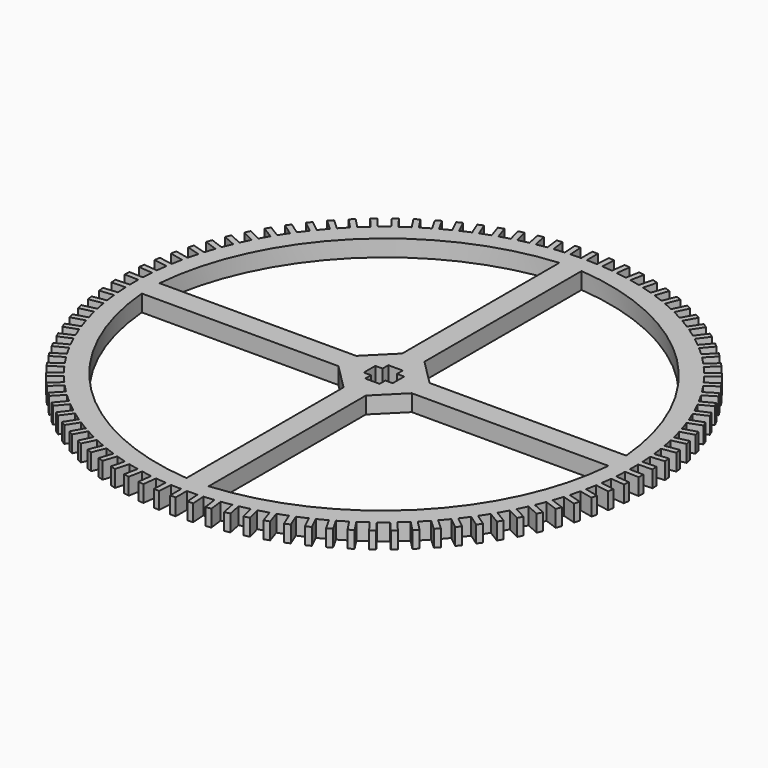
from build123d import *

# Parameters (mm, degrees)
F1_DEPTH = 3


with BuildPart() as f1:
    # F0 (on Top) → F1 (new body)
    with BuildSketch(Plane.XY):
        with BuildLine():
            ThreePointArc((44.990129, -0.942489), (44.997532, -0.47127), (45, 0))
            ThreePointArc((45, 0), (44.997532, 0.47127), (44.990129, 0.942489))
            ThreePointArc((44.990129, 0.942489), (44.97688, 1.442321), (44.958078, 1.941975))
            ThreePointArc((44.958078, 1.941975), (44.907543, 2.88316), (44.837307, 3.82308))
            ThreePointArc((44.837307, 3.82308), (44.79206, 4.321036), (44.741284, 4.818459))
            ThreePointArc((44.741284, 4.818459), (44.630551, 5.754472), (44.500238, 6.687961))
            ThreePointArc((44.500238, 6.687961), (44.42318, 7.181995), (44.340638, 7.675143))
            ThreePointArc((44.340638, 7.675143), (44.170162, 8.602138), (43.980308, 9.52536))
            ThreePointArc((43.980308, 9.52536), (43.871756, 10.013442), (43.757787, 10.500288))
            ThreePointArc((43.757787, 10.500288), (43.528269, 11.414456), (43.279654, 12.323617))
            ThreePointArc((43.279654, 12.323617), (43.140053, 12.803741), (42.995127, 13.282285))
            ThreePointArc((42.995127, 13.282285), (42.707509, 14.17987), (42.401155, 15.071234))
            ThreePointArc((42.401155, 15.071234), (42.231079, 15.541427), (42.05579, 16.009702))
            ThreePointArc((42.05579, 16.009702), (41.711254, 16.887015), (41.34842, 17.75692))
            ThreePointArc((41.34842, 17.75692), (41.148568, 18.21525), (40.943636, 18.671332))
            ThreePointArc((40.943636, 18.671332), (40.543599, 19.524768), (40.125775, 20.369639))
            ThreePointArc((40.125775, 20.369639), (39.896969, 20.814223), (39.663237, 21.256238))
            ThreePointArc((39.663237, 21.256238), (39.209342, 22.08229), (38.738245, 22.898654))
            ThreePointArc((38.738245, 22.898654), (38.481424, 23.327666), (38.219853, 23.753797))
            ThreePointArc((38.219853, 23.753797), (37.713965, 24.549071), (37.191531, 25.333574))
            ThreePointArc((37.191531, 25.333574), (36.907751, 25.74525), (36.619415, 26.153747))
            ThreePointArc((36.619415, 26.153747), (36.063613, 26.914974), (35.49199, 27.664393))
            ThreePointArc((35.49199, 27.664393), (35.182417, 28.057041), (34.8685, 28.446225))
            ThreePointArc((34.8685, 28.446225), (34.265068, 29.170278), (33.646604, 29.881534))
            ThreePointArc((33.646604, 29.881534), (33.31251, 30.25354), (32.974303, 30.621812))
            ThreePointArc((32.974303, 30.621812), (32.325721, 31.305715), (31.662957, 31.975884))
            ThreePointArc((31.662957, 31.975884), (31.305715, 32.325721), (30.944608, 32.671567))
            ThreePointArc((30.944608, 32.671567), (30.25354, 33.31251), (29.5492, 33.938839))
            ThreePointArc((29.5492, 33.938839), (29.170278, 34.265068), (28.787754, 34.587067))
            ThreePointArc((28.787754, 34.587067), (28.057041, 35.182417), (27.314019, 35.762332))
            ThreePointArc((27.314019, 35.762332), (26.914974, 36.063613), (26.512606, 36.360442))
            ThreePointArc((26.512606, 36.360442), (25.74525, 36.907751), (24.966599, 37.438869))
            ThreePointArc((24.966599, 37.438869), (24.549071, 37.713965), (24.128511, 37.984404))
            ThreePointArc((24.128511, 37.984404), (23.327666, 38.481424), (22.516586, 38.961563))
            ThreePointArc((22.516586, 38.961563), (22.08229, 39.209342), (21.645267, 39.45228))
            ThreePointArc((21.645267, 39.45228), (20.814223, 39.896969), (19.974047, 40.324154))
            ThreePointArc((19.974047, 40.324154), (19.524768, 40.543599), (19.073079, 40.758038))
            ThreePointArc((19.073079, 40.758038), (18.21525, 41.148568), (17.349431, 41.521046))
            ThreePointArc((17.349431, 41.521046), (16.887015, 41.711254), (16.422514, 41.896313))
            ThreePointArc((16.422514, 41.896313), (15.541427, 42.231079), (14.653522, 42.547318))
            ThreePointArc((14.653522, 42.547318), (14.17987, 42.707509), (13.704467, 42.862426))
            ThreePointArc((13.704467, 42.862426), (12.803741, 43.140053), (11.897399, 43.398755))
            ThreePointArc((11.897399, 43.398755), (11.414456, 43.528269), (10.930104, 43.652409))
            ThreePointArc((10.930104, 43.652409), (10.013442, 43.871756), (9.092387, 44.071856))
            ThreePointArc((9.092387, 44.071856), (8.602138, 44.170162), (8.110828, 44.263015))
            ThreePointArc((8.110828, 44.263015), (7.181995, 44.42318), (6.250012, 44.563857))
            ThreePointArc((6.250012, 44.563857), (5.754472, 44.630551), (5.258222, 44.691734))
            ThreePointArc((5.258222, 44.691734), (4.321036, 44.79206), (3.381955, 44.872735))
            ThreePointArc((3.381955, 44.872735), (2.88316, 44.907543), (2.384009, 44.936806))
            ThreePointArc((2.384009, 44.936806), (1.442321, 44.97688), (0.5, 44.997222))
            ThreePointArc((0.5, 44.997222), (0.250004, 44.999306), (0, 45))
            ThreePointArc((0, 45), (-0.250004, 44.999306), (-0.5, 44.997222))
            ThreePointArc((-0.5, 44.997222), (-1.442321, 44.97688), (-2.384009, 44.936806))
            ThreePointArc((-2.384009, 44.936806), (-2.88316, 44.907543), (-3.381955, 44.872735))
            ThreePointArc((-3.381955, 44.872735), (-4.321036, 44.79206), (-5.258222, 44.691734))
            ThreePointArc((-5.258222, 44.691734), (-5.754472, 44.630551), (-6.250012, 44.563857))
            ThreePointArc((-6.250012, 44.563857), (-7.181995, 44.42318), (-8.110828, 44.263015))
            ThreePointArc((-8.110828, 44.263015), (-8.602138, 44.170162), (-9.092387, 44.071856))
            ThreePointArc((-9.092387, 44.071856), (-10.013442, 43.871756), (-10.930104, 43.652409))
            ThreePointArc((-10.930104, 43.652409), (-11.414456, 43.528269), (-11.897399, 43.398755))
            ThreePointArc((-11.897399, 43.398755), (-12.803741, 43.140053), (-13.704467, 42.862426))
            ThreePointArc((-13.704467, 42.862426), (-14.17987, 42.707509), (-14.653522, 42.547318))
            ThreePointArc((-14.653522, 42.547318), (-15.541427, 42.231079), (-16.422514, 41.896313))
            ThreePointArc((-16.422514, 41.896313), (-16.887015, 41.711254), (-17.349431, 41.521046))
            ThreePointArc((-17.349431, 41.521046), (-18.21525, 41.148568), (-19.073079, 40.758038))
            ThreePointArc((-19.073079, 40.758038), (-19.524768, 40.543599), (-19.974047, 40.324154))
            ThreePointArc((-19.974047, 40.324154), (-20.814223, 39.896969), (-21.645267, 39.45228))
            ThreePointArc((-21.645267, 39.45228), (-22.08229, 39.209342), (-22.516586, 38.961563))
            ThreePointArc((-22.516586, 38.961563), (-23.327666, 38.481424), (-24.128511, 37.984404))
            ThreePointArc((-24.128511, 37.984404), (-24.549071, 37.713965), (-24.966599, 37.438869))
            ThreePointArc((-24.966599, 37.438869), (-25.74525, 36.907751), (-26.512606, 36.360442))
            ThreePointArc((-26.512606, 36.360442), (-26.914974, 36.063613), (-27.314019, 35.762332))
            ThreePointArc((-27.314019, 35.762332), (-28.057041, 35.182417), (-28.787754, 34.587067))
            ThreePointArc((-28.787754, 34.587067), (-29.170278, 34.265068), (-29.5492, 33.938839))
            ThreePointArc((-29.5492, 33.938839), (-30.25354, 33.31251), (-30.944608, 32.671567))
            ThreePointArc((-30.944608, 32.671567), (-31.305715, 32.325721), (-31.662957, 31.975884))
            ThreePointArc((-31.662957, 31.975884), (-32.325721, 31.305715), (-32.974303, 30.621812))
            ThreePointArc((-32.974303, 30.621812), (-33.31251, 30.25354), (-33.646604, 29.881534))
            ThreePointArc((-33.646604, 29.881534), (-34.265068, 29.170278), (-34.8685, 28.446225))
            ThreePointArc((-34.8685, 28.446225), (-35.182417, 28.057041), (-35.49199, 27.664393))
            ThreePointArc((-35.49199, 27.664393), (-36.063613, 26.914974), (-36.619415, 26.153747))
            ThreePointArc((-36.619415, 26.153747), (-36.907751, 25.74525), (-37.191531, 25.333574))
            ThreePointArc((-37.191531, 25.333574), (-37.713965, 24.549071), (-38.219853, 23.753797))
            ThreePointArc((-38.219853, 23.753797), (-38.481424, 23.327666), (-38.738245, 22.898654))
            ThreePointArc((-38.738245, 22.898654), (-39.209342, 22.08229), (-39.663237, 21.256238))
            ThreePointArc((-39.663237, 21.256238), (-39.896969, 20.814223), (-40.125775, 20.369639))
            ThreePointArc((-40.125775, 20.369639), (-40.543599, 19.524768), (-40.943636, 18.671332))
            ThreePointArc((-40.943636, 18.671332), (-41.148568, 18.21525), (-41.34842, 17.75692))
            ThreePointArc((-41.34842, 17.75692), (-41.711254, 16.887015), (-42.05579, 16.009702))
            ThreePointArc((-42.05579, 16.009702), (-42.231079, 15.541427), (-42.401155, 15.071234))
            ThreePointArc((-42.401155, 15.071234), (-42.707509, 14.17987), (-42.995127, 13.282285))
            ThreePointArc((-42.995127, 13.282285), (-43.140053, 12.803741), (-43.279654, 12.323617))
            ThreePointArc((-43.279654, 12.323617), (-43.528269, 11.414456), (-43.757787, 10.500288))
            ThreePointArc((-43.757787, 10.500288), (-43.871756, 10.013442), (-43.980308, 9.52536))
            ThreePointArc((-43.980308, 9.52536), (-44.170162, 8.602138), (-44.340638, 7.675143))
            ThreePointArc((-44.340638, 7.675143), (-44.42318, 7.181995), (-44.500238, 6.687961))
            ThreePointArc((-44.500238, 6.687961), (-44.630551, 5.754472), (-44.741284, 4.818459))
            ThreePointArc((-44.741284, 4.818459), (-44.79206, 4.321036), (-44.837307, 3.82308))
            ThreePointArc((-44.837307, 3.82308), (-44.907543, 2.88316), (-44.958078, 1.941975))
            ThreePointArc((-44.958078, 1.941975), (-44.97688, 1.442321), (-44.990129, 0.942489))
            ThreePointArc((-44.990129, 0.942489), (-45, 0), (-44.990129, -0.942489))
            ThreePointArc((-44.990129, -0.942489), (-44.97688, -1.442321), (-44.958078, -1.941975))
            ThreePointArc((-44.958078, -1.941975), (-44.907543, -2.88316), (-44.837307, -3.82308))
            ThreePointArc((-44.837307, -3.82308), (-44.79206, -4.321036), (-44.741284, -4.818459))
            ThreePointArc((-44.741284, -4.818459), (-44.630551, -5.754472), (-44.500238, -6.687961))
            ThreePointArc((-44.500238, -6.687961), (-44.42318, -7.181995), (-44.340638, -7.675143))
            ThreePointArc((-44.340638, -7.675143), (-44.170162, -8.602138), (-43.980308, -9.52536))
            ThreePointArc((-43.980308, -9.52536), (-43.871756, -10.013442), (-43.757787, -10.500288))
            ThreePointArc((-43.757787, -10.500288), (-43.528269, -11.414456), (-43.279654, -12.323617))
            ThreePointArc((-43.279654, -12.323617), (-43.140053, -12.803741), (-42.995127, -13.282285))
            ThreePointArc((-42.995127, -13.282285), (-42.707509, -14.17987), (-42.401155, -15.071234))
            ThreePointArc((-42.401155, -15.071234), (-42.231079, -15.541427), (-42.05579, -16.009702))
            ThreePointArc((-42.05579, -16.009702), (-41.711254, -16.887015), (-41.34842, -17.75692))
            ThreePointArc((-41.34842, -17.75692), (-41.148568, -18.21525), (-40.943636, -18.671332))
            ThreePointArc((-40.943636, -18.671332), (-40.543599, -19.524768), (-40.125775, -20.369639))
            ThreePointArc((-40.125775, -20.369639), (-39.896969, -20.814223), (-39.663237, -21.256238))
            ThreePointArc((-39.663237, -21.256238), (-39.209342, -22.08229), (-38.738245, -22.898654))
            ThreePointArc((-38.738245, -22.898654), (-38.481424, -23.327666), (-38.219853, -23.753797))
            ThreePointArc((-38.219853, -23.753797), (-37.713965, -24.549071), (-37.191531, -25.333574))
            ThreePointArc((-37.191531, -25.333574), (-36.907751, -25.74525), (-36.619415, -26.153747))
            ThreePointArc((-36.619415, -26.153747), (-36.063613, -26.914974), (-35.49199, -27.664393))
            ThreePointArc((-35.49199, -27.664393), (-35.182417, -28.057041), (-34.8685, -28.446225))
            ThreePointArc((-34.8685, -28.446225), (-34.265068, -29.170278), (-33.646604, -29.881534))
            ThreePointArc((-33.646604, -29.881534), (-33.31251, -30.25354), (-32.974303, -30.621812))
            ThreePointArc((-32.974303, -30.621812), (-32.325721, -31.305715), (-31.662957, -31.975884))
            ThreePointArc((-31.662957, -31.975884), (-31.305715, -32.325721), (-30.944608, -32.671567))
            ThreePointArc((-30.944608, -32.671567), (-30.25354, -33.31251), (-29.5492, -33.938839))
            ThreePointArc((-29.5492, -33.938839), (-29.170278, -34.265068), (-28.787754, -34.587067))
            ThreePointArc((-28.787754, -34.587067), (-28.057041, -35.182417), (-27.314019, -35.762332))
            ThreePointArc((-27.314019, -35.762332), (-26.914974, -36.063613), (-26.512606, -36.360442))
            ThreePointArc((-26.512606, -36.360442), (-25.74525, -36.907751), (-24.966599, -37.438869))
            ThreePointArc((-24.966599, -37.438869), (-24.549071, -37.713965), (-24.128511, -37.984404))
            ThreePointArc((-24.128511, -37.984404), (-23.327666, -38.481424), (-22.516586, -38.961563))
            ThreePointArc((-22.516586, -38.961563), (-22.08229, -39.209342), (-21.645267, -39.45228))
            ThreePointArc((-21.645267, -39.45228), (-20.814223, -39.896969), (-19.974047, -40.324154))
            ThreePointArc((-19.974047, -40.324154), (-19.524768, -40.543599), (-19.073079, -40.758038))
            ThreePointArc((-19.073079, -40.758038), (-18.21525, -41.148568), (-17.349431, -41.521046))
            ThreePointArc((-17.349431, -41.521046), (-16.887015, -41.711254), (-16.422514, -41.896313))
            ThreePointArc((-16.422514, -41.896313), (-15.541427, -42.231079), (-14.653522, -42.547318))
            ThreePointArc((-14.653522, -42.547318), (-14.17987, -42.707509), (-13.704467, -42.862426))
            ThreePointArc((-13.704467, -42.862426), (-12.803741, -43.140053), (-11.897399, -43.398755))
            ThreePointArc((-11.897399, -43.398755), (-11.414456, -43.528269), (-10.930104, -43.652409))
            ThreePointArc((-10.930104, -43.652409), (-10.013442, -43.871756), (-9.092387, -44.071856))
            ThreePointArc((-9.092387, -44.071856), (-8.602138, -44.170162), (-8.110828, -44.263015))
            ThreePointArc((-8.110828, -44.263015), (-7.181995, -44.42318), (-6.250012, -44.563857))
            ThreePointArc((-6.250012, -44.563857), (-5.754472, -44.630551), (-5.258222, -44.691734))
            ThreePointArc((-5.258222, -44.691734), (-4.321036, -44.79206), (-3.381955, -44.872735))
            ThreePointArc((-3.381955, -44.872735), (-2.88316, -44.907543), (-2.384009, -44.936806))
            ThreePointArc((-2.384009, -44.936806), (-1.442321, -44.97688), (-0.5, -44.997222))
            ThreePointArc((-0.5, -44.997222), (0, -45), (0.5, -44.997222))
            ThreePointArc((0.5, -44.997222), (1.442321, -44.97688), (2.384009, -44.936806))
            ThreePointArc((2.384009, -44.936806), (2.88316, -44.907543), (3.381955, -44.872735))
            ThreePointArc((3.381955, -44.872735), (4.321036, -44.79206), (5.258222, -44.691734))
            ThreePointArc((5.258222, -44.691734), (5.754472, -44.630551), (6.250012, -44.563857))
            ThreePointArc((6.250012, -44.563857), (7.181995, -44.42318), (8.110828, -44.263015))
            ThreePointArc((8.110828, -44.263015), (8.602138, -44.170162), (9.092387, -44.071856))
            ThreePointArc((9.092387, -44.071856), (10.013442, -43.871756), (10.930104, -43.652409))
            ThreePointArc((10.930104, -43.652409), (11.414456, -43.528269), (11.897399, -43.398755))
            ThreePointArc((11.897399, -43.398755), (12.803741, -43.140053), (13.704467, -42.862426))
            ThreePointArc((13.704467, -42.862426), (14.17987, -42.707509), (14.653522, -42.547318))
            ThreePointArc((14.653522, -42.547318), (15.541427, -42.231079), (16.422514, -41.896313))
            ThreePointArc((16.422514, -41.896313), (16.887015, -41.711254), (17.349431, -41.521046))
            ThreePointArc((17.349431, -41.521046), (18.21525, -41.148568), (19.073079, -40.758038))
            ThreePointArc((19.073079, -40.758038), (19.524768, -40.543599), (19.974047, -40.324154))
            ThreePointArc((19.974047, -40.324154), (20.814223, -39.896969), (21.645267, -39.45228))
            ThreePointArc((21.645267, -39.45228), (22.08229, -39.209342), (22.516586, -38.961563))
            ThreePointArc((22.516586, -38.961563), (23.327666, -38.481424), (24.128511, -37.984404))
            ThreePointArc((24.128511, -37.984404), (24.549071, -37.713965), (24.966599, -37.438869))
            ThreePointArc((24.966599, -37.438869), (25.74525, -36.907751), (26.512606, -36.360442))
            ThreePointArc((26.512606, -36.360442), (26.914974, -36.063613), (27.314019, -35.762332))
            ThreePointArc((27.314019, -35.762332), (28.057041, -35.182417), (28.787754, -34.587067))
            ThreePointArc((28.787754, -34.587067), (29.170278, -34.265068), (29.5492, -33.938839))
            ThreePointArc((29.5492, -33.938839), (30.25354, -33.31251), (30.944608, -32.671567))
            ThreePointArc((30.944608, -32.671567), (31.305715, -32.325721), (31.662957, -31.975884))
            ThreePointArc((31.662957, -31.975884), (32.325721, -31.305715), (32.974303, -30.621812))
            ThreePointArc((32.974303, -30.621812), (33.31251, -30.25354), (33.646604, -29.881534))
            ThreePointArc((33.646604, -29.881534), (34.265068, -29.170278), (34.8685, -28.446225))
            ThreePointArc((34.8685, -28.446225), (35.182417, -28.057041), (35.49199, -27.664393))
            ThreePointArc((35.49199, -27.664393), (36.063613, -26.914974), (36.619415, -26.153747))
            ThreePointArc((36.619415, -26.153747), (36.907751, -25.74525), (37.191531, -25.333574))
            ThreePointArc((37.191531, -25.333574), (37.713965, -24.549071), (38.219853, -23.753797))
            ThreePointArc((38.219853, -23.753797), (38.481424, -23.327666), (38.738245, -22.898654))
            ThreePointArc((38.738245, -22.898654), (39.209342, -22.08229), (39.663237, -21.256238))
            ThreePointArc((39.663237, -21.256238), (39.896969, -20.814223), (40.125775, -20.369639))
            ThreePointArc((40.125775, -20.369639), (40.543599, -19.524768), (40.943636, -18.671332))
            ThreePointArc((40.943636, -18.671332), (41.148568, -18.21525), (41.34842, -17.75692))
            ThreePointArc((41.34842, -17.75692), (41.711254, -16.887015), (42.05579, -16.009702))
            ThreePointArc((42.05579, -16.009702), (42.231079, -15.541427), (42.401155, -15.071234))
            ThreePointArc((42.401155, -15.071234), (42.707509, -14.17987), (42.995127, -13.282285))
            ThreePointArc((42.995127, -13.282285), (43.140053, -12.803741), (43.279654, -12.323617))
            ThreePointArc((43.279654, -12.323617), (43.528269, -11.414456), (43.757787, -10.500288))
            ThreePointArc((43.757787, -10.500288), (43.871756, -10.013442), (43.980308, -9.52536))
            ThreePointArc((43.980308, -9.52536), (44.170162, -8.602138), (44.340638, -7.675143))
            ThreePointArc((44.340638, -7.675143), (44.42318, -7.181995), (44.500238, -6.687961))
            ThreePointArc((44.500238, -6.687961), (44.630551, -5.754472), (44.741284, -4.818459))
            ThreePointArc((44.741284, -4.818459), (44.79206, -4.321036), (44.837307, -3.82308))
            ThreePointArc((44.837307, -3.82308), (44.907543, -2.88316), (44.958078, -1.941975))
            ThreePointArc((44.958078, -1.941975), (44.97688, -1.442321), (44.990129, -0.942489))
        make_face()
        with BuildLine():
            ThreePointArc((-2, -41.955534), (-29.298083, -29.283972), (-42, -2))
            Line((-42, -2), (-6.6, -2))
            Line((-6.6, -2), (-2, -6.6))
            Line((-2, -6.6), (-2, -41.955534))
        make_face(mode=Mode.SUBTRACT)
        with BuildLine():
            ThreePointArc((42, -2), (29.298083, -29.283972), (2, -41.955534))
            Line((2, -41.955534), (2, -6.6))
            Line((2, -6.6), (6.6, -2))
            Line((6.6, -2), (42, -2))
        make_face(mode=Mode.SUBTRACT)
        with BuildLine():
            ThreePointArc((-42, 2), (-29.298083, 29.283972), (-2, 41.955534))
            Line((-2, 41.955534), (-2, 6.6))
            Line((-2, 6.6), (-6.6, 2))
            Line((-6.6, 2), (-42, 2))
        make_face(mode=Mode.SUBTRACT)
        Polygon((-1.3, 2.6), (0, 2.6), (1.3, 2.6), (1.3, 1.3), (2.6, 1.3), (2.6, 0), (2.6, -1.3), (1.3, -1.3), (1.3, -2.6), (0, -2.6), (-1.3, -2.6), (-1.3, -1.3), (-2.6, -1.3), (-2.6, 0), (-2.6, 1.3), (-1.3, 1.3), align=None, mode=Mode.SUBTRACT)
        with BuildLine():
            Line((2, 6.6), (2, 41.955534))
            ThreePointArc((2, 41.955534), (29.298083, 29.283972), (42, 2))
            Line((42, 2), (6.6, 2))
            Line((6.6, 2), (2, 6.6))
        make_face(mode=Mode.SUBTRACT)
        with BuildLine():
            ThreePointArc((44.958078, 1.941975), (44.97688, 1.442321), (44.990129, 0.942489))
            Line((44.990129, 0.942489), (47.491621, 1.022707))
            Line((47.491621, 1.022707), (47.459569, 2.022193))
            Line((47.459569, 2.022193), (44.958078, 1.941975))
        make_face()
        with BuildLine():
            Line((47.491621, -1.022707), (44.990129, -0.942489))
            ThreePointArc((44.990129, -0.942489), (44.97688, -1.442321), (44.958078, -1.941975))
            Line((44.958078, -1.941975), (47.459569, -2.022193))
            Line((47.459569, -2.022193), (47.491621, -1.022707))
        make_face()
        with BuildLine():
            ThreePointArc((44.741284, 4.818459), (44.79206, 4.321036), (44.837307, 3.82308))
            Line((44.837307, 3.82308), (47.328519, 4.063404))
            Line((47.328519, 4.063404), (47.232496, 5.058783))
            Line((47.232496, 5.058783), (44.741284, 4.818459))
        make_face()
        with BuildLine():
            Line((47.328519, -4.063404), (44.837307, -3.82308))
            ThreePointArc((44.837307, -3.82308), (44.79206, -4.321036), (44.741284, -4.818459))
            Line((44.741284, -4.818459), (47.232496, -5.058783))
            Line((47.232496, -5.058783), (47.328519, -4.063404))
        make_face()
        with BuildLine():
            ThreePointArc((44.340638, 7.675143), (44.42318, 7.181995), (44.500238, 6.687961))
            Line((44.500238, 6.687961), (46.970935, 7.087404))
            Line((46.970935, 7.087404), (46.811335, 8.074586))
            Line((46.811335, 8.074586), (44.340638, 7.675143))
        make_face()
        with BuildLine():
            Line((46.970935, -7.087404), (44.500238, -6.687961))
            ThreePointArc((44.500238, -6.687961), (44.42318, -7.181995), (44.340638, -7.675143))
            Line((44.340638, -7.675143), (46.811335, -8.074586))
            Line((46.811335, -8.074586), (46.970935, -7.087404))
        make_face()
        with BuildLine():
            ThreePointArc((43.757787, 10.500288), (43.871756, 10.013442), (43.980308, 9.52536))
            Line((43.980308, 9.52536), (46.420336, 10.08228))
            Line((46.420336, 10.08228), (46.197815, 11.057208))
            Line((46.197815, 11.057208), (43.757787, 10.500288))
        make_face()
        with BuildLine():
            Line((46.420336, -10.08228), (43.980308, -9.52536))
            ThreePointArc((43.980308, -9.52536), (43.871756, -10.013442), (43.757787, -10.500288))
            Line((43.757787, -10.500288), (46.197815, -11.057208))
            Line((46.197815, -11.057208), (46.420336, -10.08228))
        make_face()
        with BuildLine():
            ThreePointArc((42.995127, 13.282285), (43.140053, 12.803741), (43.279654, 12.323617))
            Line((43.279654, 12.323617), (45.678987, 13.035726))
            Line((45.678987, 13.035726), (45.394459, 13.994394))
            Line((45.394459, 13.994394), (42.995127, 13.282285))
        make_face()
        with BuildLine():
            Line((45.678987, -13.035726), (43.279654, -12.323617))
            ThreePointArc((43.279654, -12.323617), (43.140053, -12.803741), (42.995127, -13.282285))
            Line((42.995127, -13.282285), (45.394459, -13.994394))
            Line((45.394459, -13.994394), (45.678987, -13.035726))
        make_face()
        with BuildLine():
            ThreePointArc((42.05579, 16.009702), (42.231079, 15.541427), (42.401155, 15.071234))
            Line((42.401155, 15.071234), (44.749933, 15.935606))
            Line((44.749933, 15.935606), (44.404568, 16.874074))
            Line((44.404568, 16.874074), (42.05579, 16.009702))
        make_face()
        with BuildLine():
            Line((44.749933, -15.935606), (42.401155, -15.071234))
            ThreePointArc((42.401155, -15.071234), (42.231079, -15.541427), (42.05579, -16.009702))
            Line((42.05579, -16.009702), (44.404568, -16.874074))
            Line((44.404568, -16.874074), (44.749933, -15.935606))
        make_face()
        with BuildLine():
            ThreePointArc((40.943636, 18.671332), (41.148568, 18.21525), (41.34842, 17.75692))
            Line((41.34842, 17.75692), (43.636991, 18.770002))
            Line((43.636991, 18.770002), (43.232208, 19.684415))
            Line((43.232208, 19.684415), (40.943636, 18.671332))
        make_face()
        with BuildLine():
            Line((43.636991, -18.770002), (41.34842, -17.75692))
            ThreePointArc((41.34842, -17.75692), (41.148568, -18.21525), (40.943636, -18.671332))
            Line((40.943636, -18.671332), (43.232208, -19.684415))
            Line((43.232208, -19.684415), (43.636991, -18.770002))
        make_face()
        with BuildLine():
            ThreePointArc((39.663237, 21.256238), (39.896969, 20.814223), (40.125775, 20.369639))
            Line((40.125775, 20.369639), (42.344736, 21.527269))
            Line((42.344736, 21.527269), (41.882198, 22.413868))
            Line((41.882198, 22.413868), (39.663237, 21.256238))
        make_face()
        with BuildLine():
            Line((42.344736, -21.527269), (40.125775, -20.369639))
            ThreePointArc((40.125775, -20.369639), (39.896969, -20.814223), (39.663237, -21.256238))
            Line((39.663237, -21.256238), (41.882198, -22.413868))
            Line((41.882198, -22.413868), (42.344736, -21.527269))
        make_face()
        with BuildLine():
            ThreePointArc((38.219853, 23.753797), (38.481424, 23.327666), (38.738245, 22.898654))
            Line((38.738245, 22.898654), (40.878478, 24.196076))
            Line((40.878478, 24.196076), (40.360085, 25.051218))
            Line((40.360085, 25.051218), (38.219853, 23.753797))
        make_face()
        with BuildLine():
            Line((40.878478, -24.196076), (38.738245, -22.898654))
            ThreePointArc((38.738245, -22.898654), (38.481424, -23.327666), (38.219853, -23.753797))
            Line((38.219853, -23.753797), (40.360085, -25.051218))
            Line((40.360085, -25.051218), (40.878478, -24.196076))
        make_face()
        with BuildLine():
            ThreePointArc((36.619415, 26.153747), (36.907751, 25.74525), (37.191531, 25.333574))
            Line((37.191531, 25.333574), (39.24424, 26.765455))
            Line((39.24424, 26.765455), (38.672124, 27.585627))
            Line((38.672124, 27.585627), (36.619415, 26.153747))
        make_face()
        with BuildLine():
            Line((39.24424, -26.765455), (37.191531, -25.333574))
            ThreePointArc((37.191531, -25.333574), (36.907751, -25.74525), (36.619415, -26.153747))
            Line((36.619415, -26.153747), (38.672124, -27.585627))
            Line((38.672124, -27.585627), (39.24424, -26.765455))
        make_face()
        with BuildLine():
            ThreePointArc((34.8685, 28.446225), (35.182417, 28.057041), (35.49199, 27.664393))
            Line((35.49199, 27.664393), (37.44874, 29.22485))
            Line((37.44874, 29.22485), (36.825251, 30.006681))
            Line((36.825251, 30.006681), (34.8685, 28.446225))
        make_face()
        with BuildLine():
            Line((37.44874, -29.22485), (35.49199, -27.664393))
            ThreePointArc((35.49199, -27.664393), (35.182417, -28.057041), (34.8685, -28.446225))
            Line((34.8685, -28.446225), (36.825251, -30.006681))
            Line((36.825251, -30.006681), (37.44874, -29.22485))
        make_face()
        with BuildLine():
            ThreePointArc((32.974303, 30.621812), (33.31251, 30.25354), (33.646604, 29.881534))
            Line((33.646604, 29.881534), (35.499355, 31.564153))
            Line((35.499355, 31.564153), (34.827054, 32.304431))
            Line((34.827054, 32.304431), (32.974303, 30.621812))
        make_face()
        with BuildLine():
            Line((35.499355, -31.564153), (33.646604, -29.881534))
            ThreePointArc((33.646604, -29.881534), (33.31251, -30.25354), (32.974303, -30.621812))
            Line((32.974303, -30.621812), (34.827054, -32.304431))
            Line((34.827054, -32.304431), (35.499355, -31.564153))
        make_face()
        with BuildLine():
            ThreePointArc((30.944608, 32.671567), (31.305715, 32.325721), (31.662957, 31.975884))
            Line((31.662957, 31.975884), (33.404096, 33.773753))
            Line((33.404096, 33.773753), (32.685746, 34.469435))
            Line((32.685746, 34.469435), (30.944608, 32.671567))
        make_face()
        with BuildLine():
            Line((33.404096, -33.773753), (31.662957, -31.975884))
            ThreePointArc((31.662957, -31.975884), (31.305715, -32.325721), (30.944608, -32.671567))
            Line((30.944608, -32.671567), (32.685746, -34.469435))
            Line((32.685746, -34.469435), (33.404096, -33.773753))
        make_face()
        with BuildLine():
            ThreePointArc((28.787754, 34.587067), (29.170278, 34.265068), (29.5492, 33.938839))
            Line((29.5492, 33.938839), (31.171572, 35.844569))
            Line((31.171572, 35.844569), (30.410126, 36.492797))
            Line((30.410126, 36.492797), (28.787754, 34.587067))
        make_face()
        with BuildLine():
            Line((31.171572, -35.844569), (29.5492, -33.938839))
            ThreePointArc((29.5492, -33.938839), (29.170278, -34.265068), (28.787754, -34.587067))
            Line((28.787754, -34.587067), (30.410126, -36.492797))
            Line((30.410126, -36.492797), (31.171572, -35.844569))
        make_face()
        with BuildLine():
            ThreePointArc((26.512606, 36.360442), (26.914974, 36.063613), (27.314019, 35.762332))
            Line((27.314019, 35.762332), (28.810957, 37.768092))
            Line((28.810957, 37.768092), (28.009543, 38.366202))
            Line((28.009543, 38.366202), (26.512606, 36.360442))
        make_face()
        with BuildLine():
            Line((28.810957, -37.768092), (27.314019, -35.762332))
            ThreePointArc((27.314019, -35.762332), (26.914974, -36.063613), (26.512606, -36.360442))
            Line((26.512606, -36.360442), (28.009543, -38.366202))
            Line((28.009543, -38.366202), (28.810957, -37.768092))
        make_face()
        with BuildLine():
            ThreePointArc((24.128511, 37.984404), (24.549071, 37.713965), (24.966599, 37.438869))
            Line((24.966599, 37.438869), (26.331952, 39.536418))
            Line((26.331952, 39.536418), (25.493864, 40.081952))
            Line((25.493864, 40.081952), (24.128511, 37.984404))
        make_face()
        with BuildLine():
            Line((26.331952, -39.536418), (24.966599, -37.438869))
            ThreePointArc((24.966599, -37.438869), (24.549071, -37.713965), (24.128511, -37.984404))
            Line((24.128511, -37.984404), (25.493864, -40.081952))
            Line((25.493864, -40.081952), (26.331952, -39.536418))
        make_face()
        with BuildLine():
            ThreePointArc((21.645267, 39.45228), (22.08229, 39.209342), (22.516586, 38.961563))
            Line((22.516586, 38.961563), (23.744743, 41.14228))
            Line((23.744743, 41.14228), (22.873424, 41.632997))
            Line((22.873424, 41.632997), (21.645267, 39.45228))
        make_face()
        with BuildLine():
            Line((23.744743, -41.14228), (22.516586, -38.961563))
            ThreePointArc((22.516586, -38.961563), (22.08229, -39.209342), (21.645267, -39.45228))
            Line((21.645267, -39.45228), (22.873424, -41.632997))
            Line((22.873424, -41.632997), (23.744743, -41.14228))
        make_face()
        with BuildLine():
            ThreePointArc((19.073079, 40.758038), (19.524768, 40.543599), (19.974047, 40.324154))
            Line((19.974047, 40.324154), (21.059962, 42.579079))
            Line((21.059962, 42.579079), (20.158993, 43.012963))
            Line((20.158993, 43.012963), (19.073079, 40.758038))
        make_face()
        with BuildLine():
            Line((21.059962, -42.579079), (19.974047, -40.324154))
            ThreePointArc((19.974047, -40.324154), (19.524768, -40.543599), (19.073079, -40.758038))
            Line((19.073079, -40.758038), (20.158993, -43.012963))
            Line((20.158993, -43.012963), (21.059962, -42.579079))
        make_face()
        with BuildLine():
            ThreePointArc((16.422514, 41.896313), (16.887015, 41.711254), (17.349431, 41.521046))
            Line((17.349431, 41.521046), (18.288641, 43.840912))
            Line((18.288641, 43.840912), (17.361724, 44.216179))
            Line((17.361724, 44.216179), (16.422514, 41.896313))
        make_face()
        with BuildLine():
            Line((18.288641, -43.840912), (17.349431, -41.521046))
            ThreePointArc((17.349431, -41.521046), (16.887015, -41.711254), (16.422514, -41.896313))
            Line((16.422514, -41.896313), (17.361724, -44.216179))
            Line((17.361724, -44.216179), (18.288641, -43.840912))
        make_face()
        with BuildLine():
            ThreePointArc((13.704467, 42.862426), (14.17987, 42.707509), (14.653522, 42.547318))
            Line((14.653522, 42.547318), (15.442168, 44.922594))
            Line((15.442168, 44.922594), (14.493112, 45.237702))
            Line((14.493112, 45.237702), (13.704467, 42.862426))
        make_face()
        with BuildLine():
            Line((15.442168, -44.922594), (14.653522, -42.547318))
            ThreePointArc((14.653522, -42.547318), (14.17987, -42.707509), (13.704467, -42.862426))
            Line((13.704467, -42.862426), (14.493112, -45.237702))
            Line((14.493112, -45.237702), (15.442168, -44.922594))
        make_face()
        with BuildLine():
            ThreePointArc((10.930104, 43.652409), (11.414456, 43.528269), (11.897399, 43.398755))
            Line((11.897399, 43.398755), (12.53224, 45.819679))
            Line((12.53224, 45.819679), (11.564945, 46.073333))
            Line((11.564945, 46.073333), (10.930104, 43.652409))
        make_face()
        with BuildLine():
            Line((12.53224, -45.819679), (11.897399, -43.398755))
            ThreePointArc((11.897399, -43.398755), (11.414456, -43.528269), (10.930104, -43.652409))
            Line((10.930104, -43.652409), (11.564945, -46.073333))
            Line((11.564945, -46.073333), (12.53224, -45.819679))
        make_face()
        with BuildLine():
            ThreePointArc((8.110828, 44.263015), (8.602138, 44.170162), (9.092387, 44.071856))
            Line((9.092387, 44.071856), (9.570814, 46.528481))
            Line((9.570814, 46.528481), (8.589255, 46.719639))
            Line((8.589255, 46.719639), (8.110828, 44.263015))
        make_face()
        with BuildLine():
            Line((9.570814, -46.528481), (9.092387, -44.071856))
            ThreePointArc((9.092387, -44.071856), (8.602138, -44.170162), (8.110828, -44.263015))
            Line((8.110828, -44.263015), (8.589255, -46.719639))
            Line((8.589255, -46.719639), (9.570814, -46.528481))
        make_face()
        with BuildLine():
            ThreePointArc((5.258222, 44.691734), (5.754472, 44.630551), (6.250012, 44.563857))
            Line((6.250012, 44.563857), (6.57006, 47.046087))
            Line((6.57006, 47.046087), (5.57827, 47.173964))
            Line((5.57827, 47.173964), (5.258222, 44.691734))
        make_face()
        with BuildLine():
            Line((6.57006, -47.046087), (6.250012, -44.563857))
            ThreePointArc((6.250012, -44.563857), (5.754472, -44.630551), (5.258222, -44.691734))
            Line((5.258222, -44.691734), (5.57827, -47.173964))
            Line((5.57827, -47.173964), (6.57006, -47.046087))
        make_face()
        with BuildLine():
            ThreePointArc((2.384009, 44.936806), (2.88316, 44.907543), (3.381955, 44.872735))
            Line((3.381955, 44.872735), (3.542308, 47.370371))
            Line((3.542308, 47.370371), (2.544363, 47.434441))
            Line((2.544363, 47.434441), (2.384009, 44.936806))
        make_face()
        with BuildLine():
            Line((3.542308, -47.370371), (3.381955, -44.872735))
            ThreePointArc((3.381955, -44.872735), (2.88316, -44.907543), (2.384009, -44.936806))
            Line((2.384009, -44.936806), (2.544363, -47.434441))
            Line((2.544363, -47.434441), (3.542308, -47.370371))
        make_face()
        with BuildLine():
            ThreePointArc((0, 45), (0.250004, 44.999306), (0.5, 44.997222))
            Line((0.5, 44.997222), (0.5, 47.5))
            Line((0.5, 47.5), (0, 47.5))
            Line((0, 47.5), (0, 45))
        make_face()
        with BuildLine():
            Line((0.5, -47.5), (0.5, -44.997222))
            ThreePointArc((0.5, -44.997222), (0, -45), (-0.5, -44.997222))
            Line((-0.5, -44.997222), (-0.5, -47.5))
            Line((-0.5, -47.5), (0.5, -47.5))
        make_face()
        with BuildLine():
            ThreePointArc((-0.5, 44.997222), (-0.250004, 44.999306), (0, 45))
            Line((0, 45), (0, 47.5))
            Line((0, 47.5), (-0.5, 47.5))
            Line((-0.5, 47.5), (-0.5, 44.997222))
        make_face()
        with BuildLine():
            Line((-2.544363, -47.434441), (-2.384009, -44.936806))
            ThreePointArc((-2.384009, -44.936806), (-2.88316, -44.907543), (-3.381955, -44.872735))
            Line((-3.381955, -44.872735), (-3.542308, -47.370371))
            Line((-3.542308, -47.370371), (-2.544363, -47.434441))
        make_face()
        with BuildLine():
            ThreePointArc((-3.381955, 44.872735), (-2.88316, 44.907543), (-2.384009, 44.936806))
            Line((-2.384009, 44.936806), (-2.544363, 47.434441))
            Line((-2.544363, 47.434441), (-3.542308, 47.370371))
            Line((-3.542308, 47.370371), (-3.381955, 44.872735))
        make_face()
        with BuildLine():
            Line((-5.57827, -47.173964), (-5.258222, -44.691734))
            ThreePointArc((-5.258222, -44.691734), (-5.754472, -44.630551), (-6.250012, -44.563857))
            Line((-6.250012, -44.563857), (-6.57006, -47.046087))
            Line((-6.57006, -47.046087), (-5.57827, -47.173964))
        make_face()
        with BuildLine():
            ThreePointArc((-6.250012, 44.563857), (-5.754472, 44.630551), (-5.258222, 44.691734))
            Line((-5.258222, 44.691734), (-5.57827, 47.173964))
            Line((-5.57827, 47.173964), (-6.57006, 47.046087))
            Line((-6.57006, 47.046087), (-6.250012, 44.563857))
        make_face()
        with BuildLine():
            Line((-8.589255, -46.719639), (-8.110828, -44.263015))
            ThreePointArc((-8.110828, -44.263015), (-8.602138, -44.170162), (-9.092387, -44.071856))
            Line((-9.092387, -44.071856), (-9.570814, -46.528481))
            Line((-9.570814, -46.528481), (-8.589255, -46.719639))
        make_face()
        with BuildLine():
            ThreePointArc((-9.092387, 44.071856), (-8.602138, 44.170162), (-8.110828, 44.263015))
            Line((-8.110828, 44.263015), (-8.589255, 46.719639))
            Line((-8.589255, 46.719639), (-9.570814, 46.528481))
            Line((-9.570814, 46.528481), (-9.092387, 44.071856))
        make_face()
        with BuildLine():
            Line((-11.564945, -46.073333), (-10.930104, -43.652409))
            ThreePointArc((-10.930104, -43.652409), (-11.414456, -43.528269), (-11.897399, -43.398755))
            Line((-11.897399, -43.398755), (-12.53224, -45.819679))
            Line((-12.53224, -45.819679), (-11.564945, -46.073333))
        make_face()
        with BuildLine():
            ThreePointArc((-11.897399, 43.398755), (-11.414456, 43.528269), (-10.930104, 43.652409))
            Line((-10.930104, 43.652409), (-11.564945, 46.073333))
            Line((-11.564945, 46.073333), (-12.53224, 45.819679))
            Line((-12.53224, 45.819679), (-11.897399, 43.398755))
        make_face()
        with BuildLine():
            Line((-14.493112, -45.237702), (-13.704467, -42.862426))
            ThreePointArc((-13.704467, -42.862426), (-14.17987, -42.707509), (-14.653522, -42.547318))
            Line((-14.653522, -42.547318), (-15.442168, -44.922594))
            Line((-15.442168, -44.922594), (-14.493112, -45.237702))
        make_face()
        with BuildLine():
            ThreePointArc((-14.653522, 42.547318), (-14.17987, 42.707509), (-13.704467, 42.862426))
            Line((-13.704467, 42.862426), (-14.493112, 45.237702))
            Line((-14.493112, 45.237702), (-15.442168, 44.922594))
            Line((-15.442168, 44.922594), (-14.653522, 42.547318))
        make_face()
        with BuildLine():
            Line((-17.361724, -44.216179), (-16.422514, -41.896313))
            ThreePointArc((-16.422514, -41.896313), (-16.887015, -41.711254), (-17.349431, -41.521046))
            Line((-17.349431, -41.521046), (-18.288641, -43.840912))
            Line((-18.288641, -43.840912), (-17.361724, -44.216179))
        make_face()
        with BuildLine():
            ThreePointArc((-17.349431, 41.521046), (-16.887015, 41.711254), (-16.422514, 41.896313))
            Line((-16.422514, 41.896313), (-17.361724, 44.216179))
            Line((-17.361724, 44.216179), (-18.288641, 43.840912))
            Line((-18.288641, 43.840912), (-17.349431, 41.521046))
        make_face()
        with BuildLine():
            Line((-20.158993, -43.012963), (-19.073079, -40.758038))
            ThreePointArc((-19.073079, -40.758038), (-19.524768, -40.543599), (-19.974047, -40.324154))
            Line((-19.974047, -40.324154), (-21.059962, -42.579079))
            Line((-21.059962, -42.579079), (-20.158993, -43.012963))
        make_face()
        with BuildLine():
            ThreePointArc((-19.974047, 40.324154), (-19.524768, 40.543599), (-19.073079, 40.758038))
            Line((-19.073079, 40.758038), (-20.158993, 43.012963))
            Line((-20.158993, 43.012963), (-21.059962, 42.579079))
            Line((-21.059962, 42.579079), (-19.974047, 40.324154))
        make_face()
        with BuildLine():
            Line((-22.873424, -41.632997), (-21.645267, -39.45228))
            ThreePointArc((-21.645267, -39.45228), (-22.08229, -39.209342), (-22.516586, -38.961563))
            Line((-22.516586, -38.961563), (-23.744743, -41.14228))
            Line((-23.744743, -41.14228), (-22.873424, -41.632997))
        make_face()
        with BuildLine():
            ThreePointArc((-22.516586, 38.961563), (-22.08229, 39.209342), (-21.645267, 39.45228))
            Line((-21.645267, 39.45228), (-22.873424, 41.632997))
            Line((-22.873424, 41.632997), (-23.744743, 41.14228))
            Line((-23.744743, 41.14228), (-22.516586, 38.961563))
        make_face()
        with BuildLine():
            Line((-25.493864, -40.081952), (-24.128511, -37.984404))
            ThreePointArc((-24.128511, -37.984404), (-24.549071, -37.713965), (-24.966599, -37.438869))
            Line((-24.966599, -37.438869), (-26.331952, -39.536418))
            Line((-26.331952, -39.536418), (-25.493864, -40.081952))
        make_face()
        with BuildLine():
            ThreePointArc((-24.966599, 37.438869), (-24.549071, 37.713965), (-24.128511, 37.984404))
            Line((-24.128511, 37.984404), (-25.493864, 40.081952))
            Line((-25.493864, 40.081952), (-26.331952, 39.536418))
            Line((-26.331952, 39.536418), (-24.966599, 37.438869))
        make_face()
        with BuildLine():
            Line((-28.009543, -38.366202), (-26.512606, -36.360442))
            ThreePointArc((-26.512606, -36.360442), (-26.914974, -36.063613), (-27.314019, -35.762332))
            Line((-27.314019, -35.762332), (-28.810957, -37.768092))
            Line((-28.810957, -37.768092), (-28.009543, -38.366202))
        make_face()
        with BuildLine():
            ThreePointArc((-27.314019, 35.762332), (-26.914974, 36.063613), (-26.512606, 36.360442))
            Line((-26.512606, 36.360442), (-28.009543, 38.366202))
            Line((-28.009543, 38.366202), (-28.810957, 37.768092))
            Line((-28.810957, 37.768092), (-27.314019, 35.762332))
        make_face()
        with BuildLine():
            Line((-30.410126, -36.492797), (-28.787754, -34.587067))
            ThreePointArc((-28.787754, -34.587067), (-29.170278, -34.265068), (-29.5492, -33.938839))
            Line((-29.5492, -33.938839), (-31.171572, -35.844569))
            Line((-31.171572, -35.844569), (-30.410126, -36.492797))
        make_face()
        with BuildLine():
            ThreePointArc((-29.5492, 33.938839), (-29.170278, 34.265068), (-28.787754, 34.587067))
            Line((-28.787754, 34.587067), (-30.410126, 36.492797))
            Line((-30.410126, 36.492797), (-31.171572, 35.844569))
            Line((-31.171572, 35.844569), (-29.5492, 33.938839))
        make_face()
        with BuildLine():
            Line((-32.685746, -34.469435), (-30.944608, -32.671567))
            ThreePointArc((-30.944608, -32.671567), (-31.305715, -32.325721), (-31.662957, -31.975884))
            Line((-31.662957, -31.975884), (-33.404096, -33.773753))
            Line((-33.404096, -33.773753), (-32.685746, -34.469435))
        make_face()
        with BuildLine():
            ThreePointArc((-31.662957, 31.975884), (-31.305715, 32.325721), (-30.944608, 32.671567))
            Line((-30.944608, 32.671567), (-32.685746, 34.469435))
            Line((-32.685746, 34.469435), (-33.404096, 33.773753))
            Line((-33.404096, 33.773753), (-31.662957, 31.975884))
        make_face()
        with BuildLine():
            Line((-34.827054, -32.304431), (-32.974303, -30.621812))
            ThreePointArc((-32.974303, -30.621812), (-33.31251, -30.25354), (-33.646604, -29.881534))
            Line((-33.646604, -29.881534), (-35.499355, -31.564153))
            Line((-35.499355, -31.564153), (-34.827054, -32.304431))
        make_face()
        with BuildLine():
            ThreePointArc((-33.646604, 29.881534), (-33.31251, 30.25354), (-32.974303, 30.621812))
            Line((-32.974303, 30.621812), (-34.827054, 32.304431))
            Line((-34.827054, 32.304431), (-35.499355, 31.564153))
            Line((-35.499355, 31.564153), (-33.646604, 29.881534))
        make_face()
        with BuildLine():
            Line((-36.825251, -30.006681), (-34.8685, -28.446225))
            ThreePointArc((-34.8685, -28.446225), (-35.182417, -28.057041), (-35.49199, -27.664393))
            Line((-35.49199, -27.664393), (-37.44874, -29.22485))
            Line((-37.44874, -29.22485), (-36.825251, -30.006681))
        make_face()
        with BuildLine():
            ThreePointArc((-35.49199, 27.664393), (-35.182417, 28.057041), (-34.8685, 28.446225))
            Line((-34.8685, 28.446225), (-36.825251, 30.006681))
            Line((-36.825251, 30.006681), (-37.44874, 29.22485))
            Line((-37.44874, 29.22485), (-35.49199, 27.664393))
        make_face()
        with BuildLine():
            Line((-38.672124, -27.585627), (-36.619415, -26.153747))
            ThreePointArc((-36.619415, -26.153747), (-36.907751, -25.74525), (-37.191531, -25.333574))
            Line((-37.191531, -25.333574), (-39.24424, -26.765455))
            Line((-39.24424, -26.765455), (-38.672124, -27.585627))
        make_face()
        with BuildLine():
            ThreePointArc((-37.191531, 25.333574), (-36.907751, 25.74525), (-36.619415, 26.153747))
            Line((-36.619415, 26.153747), (-38.672124, 27.585627))
            Line((-38.672124, 27.585627), (-39.24424, 26.765455))
            Line((-39.24424, 26.765455), (-37.191531, 25.333574))
        make_face()
        with BuildLine():
            Line((-40.360085, -25.051218), (-38.219853, -23.753797))
            ThreePointArc((-38.219853, -23.753797), (-38.481424, -23.327666), (-38.738245, -22.898654))
            Line((-38.738245, -22.898654), (-40.878478, -24.196076))
            Line((-40.878478, -24.196076), (-40.360085, -25.051218))
        make_face()
        with BuildLine():
            ThreePointArc((-38.738245, 22.898654), (-38.481424, 23.327666), (-38.219853, 23.753797))
            Line((-38.219853, 23.753797), (-40.360085, 25.051218))
            Line((-40.360085, 25.051218), (-40.878478, 24.196076))
            Line((-40.878478, 24.196076), (-38.738245, 22.898654))
        make_face()
        with BuildLine():
            Line((-41.882198, -22.413868), (-39.663237, -21.256238))
            ThreePointArc((-39.663237, -21.256238), (-39.896969, -20.814223), (-40.125775, -20.369639))
            Line((-40.125775, -20.369639), (-42.344736, -21.527269))
            Line((-42.344736, -21.527269), (-41.882198, -22.413868))
        make_face()
        with BuildLine():
            ThreePointArc((-40.125775, 20.369639), (-39.896969, 20.814223), (-39.663237, 21.256238))
            Line((-39.663237, 21.256238), (-41.882198, 22.413868))
            Line((-41.882198, 22.413868), (-42.344736, 21.527269))
            Line((-42.344736, 21.527269), (-40.125775, 20.369639))
        make_face()
        with BuildLine():
            Line((-43.232208, -19.684415), (-40.943636, -18.671332))
            ThreePointArc((-40.943636, -18.671332), (-41.148568, -18.21525), (-41.34842, -17.75692))
            Line((-41.34842, -17.75692), (-43.636991, -18.770002))
            Line((-43.636991, -18.770002), (-43.232208, -19.684415))
        make_face()
        with BuildLine():
            ThreePointArc((-41.34842, 17.75692), (-41.148568, 18.21525), (-40.943636, 18.671332))
            Line((-40.943636, 18.671332), (-43.232208, 19.684415))
            Line((-43.232208, 19.684415), (-43.636991, 18.770002))
            Line((-43.636991, 18.770002), (-41.34842, 17.75692))
        make_face()
        with BuildLine():
            Line((-44.404568, -16.874074), (-42.05579, -16.009702))
            ThreePointArc((-42.05579, -16.009702), (-42.231079, -15.541427), (-42.401155, -15.071234))
            Line((-42.401155, -15.071234), (-44.749933, -15.935606))
            Line((-44.749933, -15.935606), (-44.404568, -16.874074))
        make_face()
        with BuildLine():
            ThreePointArc((-42.401155, 15.071234), (-42.231079, 15.541427), (-42.05579, 16.009702))
            Line((-42.05579, 16.009702), (-44.404568, 16.874074))
            Line((-44.404568, 16.874074), (-44.749933, 15.935606))
            Line((-44.749933, 15.935606), (-42.401155, 15.071234))
        make_face()
        with BuildLine():
            Line((-45.394459, -13.994394), (-42.995127, -13.282285))
            ThreePointArc((-42.995127, -13.282285), (-43.140053, -12.803741), (-43.279654, -12.323617))
            Line((-43.279654, -12.323617), (-45.678987, -13.035726))
            Line((-45.678987, -13.035726), (-45.394459, -13.994394))
        make_face()
        with BuildLine():
            ThreePointArc((-43.279654, 12.323617), (-43.140053, 12.803741), (-42.995127, 13.282285))
            Line((-42.995127, 13.282285), (-45.394459, 13.994394))
            Line((-45.394459, 13.994394), (-45.678987, 13.035726))
            Line((-45.678987, 13.035726), (-43.279654, 12.323617))
        make_face()
        with BuildLine():
            Line((-46.197815, -11.057208), (-43.757787, -10.500288))
            ThreePointArc((-43.757787, -10.500288), (-43.871756, -10.013442), (-43.980308, -9.52536))
            Line((-43.980308, -9.52536), (-46.420336, -10.08228))
            Line((-46.420336, -10.08228), (-46.197815, -11.057208))
        make_face()
        with BuildLine():
            ThreePointArc((-43.980308, 9.52536), (-43.871756, 10.013442), (-43.757787, 10.500288))
            Line((-43.757787, 10.500288), (-46.197815, 11.057208))
            Line((-46.197815, 11.057208), (-46.420336, 10.08228))
            Line((-46.420336, 10.08228), (-43.980308, 9.52536))
        make_face()
        with BuildLine():
            Line((-46.811335, -8.074586), (-44.340638, -7.675143))
            ThreePointArc((-44.340638, -7.675143), (-44.42318, -7.181995), (-44.500238, -6.687961))
            Line((-44.500238, -6.687961), (-46.970935, -7.087404))
            Line((-46.970935, -7.087404), (-46.811335, -8.074586))
        make_face()
        with BuildLine():
            ThreePointArc((-44.500238, 6.687961), (-44.42318, 7.181995), (-44.340638, 7.675143))
            Line((-44.340638, 7.675143), (-46.811335, 8.074586))
            Line((-46.811335, 8.074586), (-46.970935, 7.087404))
            Line((-46.970935, 7.087404), (-44.500238, 6.687961))
        make_face()
        with BuildLine():
            Line((-47.232496, -5.058783), (-44.741284, -4.818459))
            ThreePointArc((-44.741284, -4.818459), (-44.79206, -4.321036), (-44.837307, -3.82308))
            Line((-44.837307, -3.82308), (-47.328519, -4.063404))
            Line((-47.328519, -4.063404), (-47.232496, -5.058783))
        make_face()
        with BuildLine():
            ThreePointArc((-44.837307, 3.82308), (-44.79206, 4.321036), (-44.741284, 4.818459))
            Line((-44.741284, 4.818459), (-47.232496, 5.058783))
            Line((-47.232496, 5.058783), (-47.328519, 4.063404))
            Line((-47.328519, 4.063404), (-44.837307, 3.82308))
        make_face()
        with BuildLine():
            Line((-47.459569, -2.022193), (-44.958078, -1.941975))
            ThreePointArc((-44.958078, -1.941975), (-44.97688, -1.442321), (-44.990129, -0.942489))
            Line((-44.990129, -0.942489), (-47.491621, -1.022707))
            Line((-47.491621, -1.022707), (-47.459569, -2.022193))
        make_face()
        with BuildLine():
            ThreePointArc((-44.990129, 0.942489), (-44.97688, 1.442321), (-44.958078, 1.941975))
            Line((-44.958078, 1.941975), (-47.459569, 2.022193))
            Line((-47.459569, 2.022193), (-47.491621, 1.022707))
            Line((-47.491621, 1.022707), (-44.990129, 0.942489))
        make_face()
    extrude(amount=F1_DEPTH)


solid = f1.part
